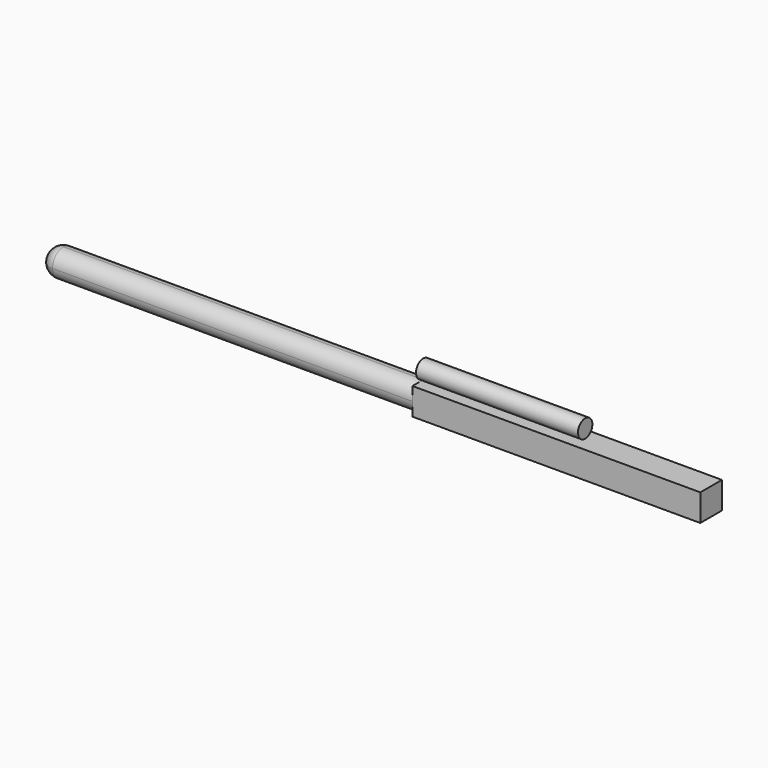
from build123d import *

# Parameters (mm, degrees)
F0_R     = 12.7
F1_DEPTH = 228.6
F2_W     = 38.1
F2_H     = 38.1
F3_DEPTH = 406.4
F5_DEPTH = 508


with BuildPart() as f1:
    # F0 (on Right) → F1 (new body)
    with BuildSketch(Plane.YZ):
        Circle(F0_R)
    extrude(amount=F1_DEPTH)


with BuildPart() as f3:
    # F2 (on Right) → F3 (new body)
    with BuildSketch(Plane.YZ):
        with Locations((0, -32.870553)):
            Rectangle(F2_W, F2_H)
    extrude(amount=F3_DEPTH)

    # F4 (on face) → F5 (join)
    with BuildSketch(Plane(origin=(0, 0, 0), x_dir=(0, -1, 0), z_dir=(-1, 0, 0))):
        with BuildLine():
            ThreePointArc((0, -51.920553), (13.470384, -46.340938), (19.05, -32.870553))
            ThreePointArc((19.05, -32.870553), (13.470384, -19.400169), (0, -13.820553))
            ThreePointArc((0, -13.820553), (-13.470384, -19.400169), (-19.05, -32.870553))
            ThreePointArc((-19.05, -32.870553), (-13.470384, -46.340938), (0, -51.920553))
        make_face()
    extrude(amount=F5_DEPTH)

    # F6 (on face) → F7 (revolve)
    with BuildSketch(Plane(origin=(-508, 0, 0), x_dir=(0, -1, 0), z_dir=(-1, 0, 0))):
        with BuildLine():
            ThreePointArc((19.05, -32.870553), (13.470384, -19.400169), (0, -13.820553))
            Line((0, -13.820553), (0, -51.920553))
            ThreePointArc((0, -51.920553), (13.470384, -46.340938), (19.05, -32.870553))
        make_face()
    revolve(axis=Axis((-508, 0, -32.870553), (0, 0, -1)))


solid = Compound([f1.part, f3.part])
